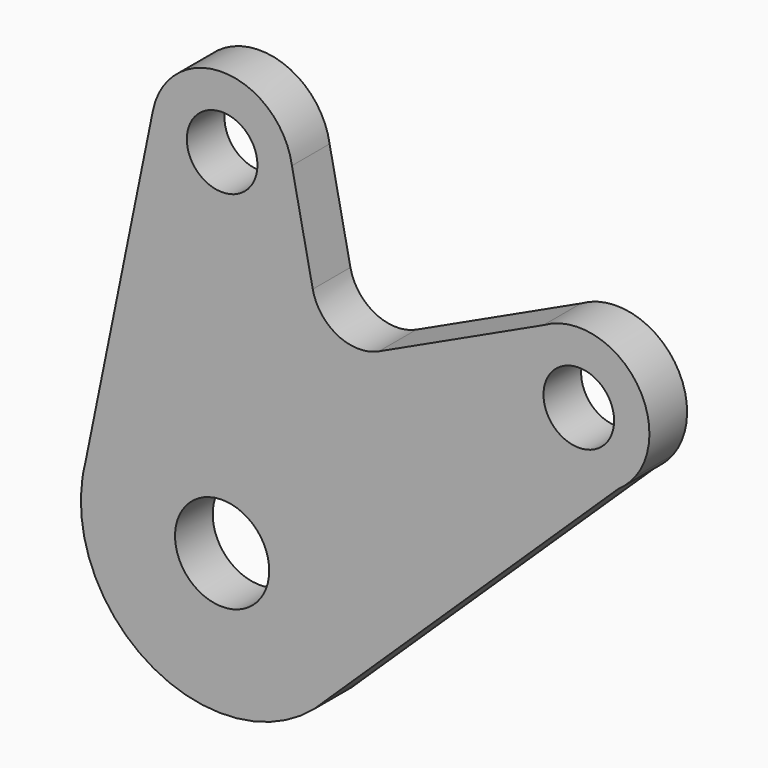
from build123d import *

# Parameters (mm, degrees)
F0_R     = 10
F0_R_2   = 7.5
F1_DEPTH = 10


with BuildPart() as f1:
    # F0 (on Front) → F1 (new body)
    with BuildSketch(Plane.XZ):
        with BuildLine():
            Line((19.249851, 55.634453), (14.824665, 77.286766))
            ThreePointArc((14.824665, 77.286766), (0.358168, 89.995723), (-14.698586, 77.991918))
            Line((-14.698586, 77.991918), (-29.047106, 7.501041))
            Line((-29.047106, 7.501041), (-29.668046, 4.450513))
            ThreePointArc((-29.668046, 4.450513), (-12.900348, -27.084701), (22.151807, -20.231101))
            Line((22.151807, -20.231101), (84.240741, 39.498036))
            Line((84.240741, 39.498036), (87.778566, 42.9014))
            ThreePointArc((87.778566, 42.9014), (86.94615, 61.847062), (68.219281, 64.836271))
            Line((68.219281, 64.836271), (33.26649, 48.570462))
            ThreePointArc((33.26649, 48.570462), (24.54684, 48.70677), (19.249851, 55.634453))
        make_face()
        Circle(F0_R, mode=Mode.SUBTRACT)
        with Locations((0, 75)):
            Circle(F0_R_2, mode=Mode.SUBTRACT)
        with Locations((75.750642, 51.864047)):
            Circle(F0_R_2, mode=Mode.SUBTRACT)
        with BuildLine():
            Line((-29.668046, 4.450513), (-29.047106, 7.501041))
            ThreePointArc((-29.047106, 7.501041), (-29.397172, 5.983837), (-29.668046, 4.450513))
        make_face()
        with BuildLine():
            ThreePointArc((84.240741, 39.498036), (86.149827, 41.054007), (87.778566, 42.9014))
            Line((87.778566, 42.9014), (84.240741, 39.498036))
        make_face()
    extrude(amount=F1_DEPTH)


solid = f1.part
